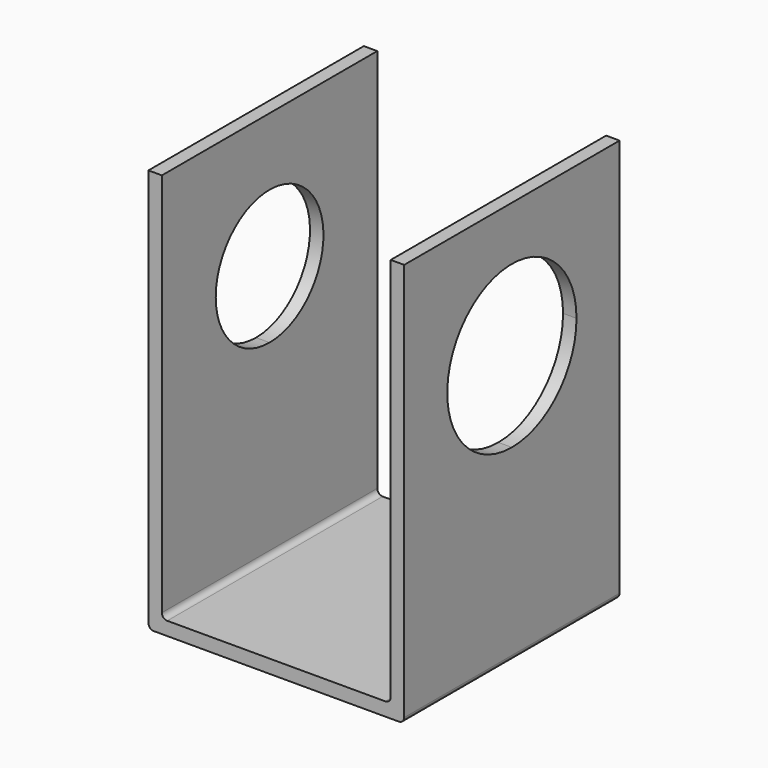
from build123d import *

# Parameters (mm, degrees)
F1_DEPTH = 100
F3_DEPTH = 5
F5_DEPTH = 5


with BuildPart() as f1:
    # F0 (on Front) → F1 (new body)
    with BuildSketch(Plane.XZ):
        with BuildLine():
            Line((-53.263988, 129.954544), (-58.263987, 129.954544))
            Line((-58.263987, 129.954544), (-58.263987, -18.045456))
            ThreePointArc((-58.263987, -18.045456), (-57.678201, -19.459669), (-56.263987, -20.045456))
            Line((-56.263987, -20.045456), (34.736013, -20.045456))
            ThreePointArc((34.736013, -20.045456), (36.150226, -19.459669), (36.736013, -18.045456))
            Line((36.736013, -18.045456), (36.736013, 129.954544))
            Line((36.736013, 129.954544), (31.736013, 129.954544))
            Line((31.736013, 129.954544), (31.736013, -13.045456))
            ThreePointArc((31.736013, -13.045456), (31.150226, -14.459669), (29.736013, -15.045456))
            Line((29.736013, -15.045456), (-51.263988, -15.045456))
            ThreePointArc((-51.263988, -15.045456), (-52.678202, -14.459669), (-53.263988, -13.045456))
            Line((-53.263988, -13.045456), (-53.263988, 129.954544))
        make_face()
    extrude(amount=F1_DEPTH)

    # F2 (on face) → F3 (cut)
    with BuildSketch(Plane.YZ.offset(36.736013)):
        with BuildLine():
            ThreePointArc((-20, 79.954544), (-71.213203, 101.167748), (-50, 49.954544))
            ThreePointArc((-50, 49.954544), (-28.786797, 58.741341), (-20, 79.954544))
        make_face()
    extrude(amount=-F3_DEPTH, mode=Mode.SUBTRACT)

    # F4 (on face) → F5 (cut)
    with BuildSketch(Plane(origin=(-58.263987, 0, 0), x_dir=(0, -1, 0), z_dir=(-1, 0, 0))):
        with BuildLine():
            ThreePointArc((75, 79.954544), (32.32233, 97.632214), (50, 54.954544))
            ThreePointArc((50, 54.954544), (67.67767, 62.276875), (75, 79.954544))
        make_face()
    extrude(amount=-F5_DEPTH, mode=Mode.SUBTRACT)


solid = f1.part
